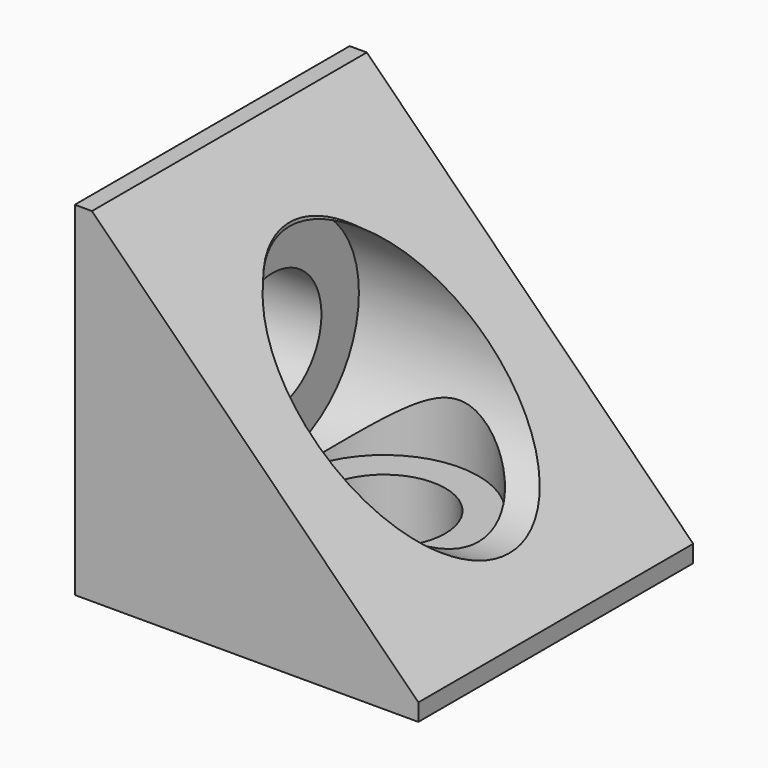
from build123d import *

# Parameters (mm, degrees)
F0_W      = 20
F0_H      = 20
F1_DEPTH  = 20
F2_R      = 6.297785
F3_DEPTH  = 16.5
F4_R      = 5.5
F5_DEPTH  = 16.5
F6_R      = 3.57
F7_DEPTH  = 20.001
F8_R      = 3.57
F9_DEPTH  = 20.001
F11_DEPTH = 20.001


with BuildPart() as f1:
    # F0 (on Top) → F1 (new body)
    with BuildSketch(Plane.XY):
        Rectangle(F0_W, F0_H)
    extrude(amount=F1_DEPTH)

    # F2 (on face) → F3 (cut)
    with BuildSketch(Plane.YZ.offset(10)):
        with Locations((0, 10)):
            Circle(F2_R)
    extrude(amount=-F3_DEPTH, mode=Mode.SUBTRACT)

    # F4 (on face) → F5 (cut)
    with BuildSketch(Plane.XY.offset(20)):
        Circle(F4_R)
    extrude(amount=-F5_DEPTH, mode=Mode.SUBTRACT)

    # F6 (on face) → F7 (cut, through all)
    with BuildSketch(Plane(origin=(0, 0, 0), x_dir=(1, 0, 0), z_dir=(0, 0, -1))):
        Circle(F6_R)
    extrude(amount=-F7_DEPTH, mode=Mode.SUBTRACT)

    # F8 (on face) → F9 (cut, through all)
    with BuildSketch(Plane(origin=(-10, 0, 0), x_dir=(0, -1, 0), z_dir=(-1, 0, 0))):
        with Locations((0, 10)):
            Circle(F8_R)
    extrude(amount=-F9_DEPTH, mode=Mode.SUBTRACT)

    # F10 (on face) → F11 (cut, through all)
    with BuildSketch(Plane(origin=(0, 10, 0), x_dir=(-1, 0, 0), z_dir=(0, 1, 0))):
        Polygon((9, 20), (-10, 20), (-10, 1), align=None)
    extrude(amount=-F11_DEPTH, mode=Mode.SUBTRACT)


solid = f1.part
